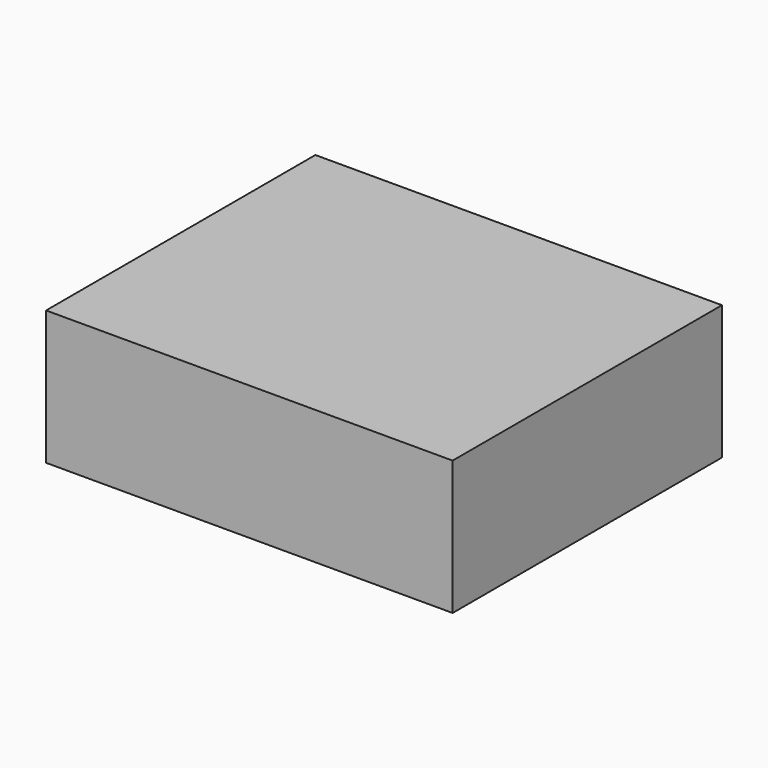
from build123d import *

# Parameters (mm, degrees)
F0_W     = 12.1920043603
F0_H     = 3.0480008572
F1_DEPTH = 50.8


with BuildPart() as f1:
    # F0 (on Right) → F1 (new body)
    with BuildSketch(Plane.YZ):
        with Locations((0, 6.8579996005)):
            Rectangle(F0_W, F0_H)
        Polygon((21.0311990231, -8.3820000291), (21.0311990231, 8.3820000291), (6.0960021801, 8.3820000291), (6.0960021801, 5.3339991719), (-6.0960021801, 5.3339991719), (-6.0960021801, 8.3820000291), (-21.0311990231, 8.3820000291), (-21.0311990231, -8.3820000291), (-6.0960021801, -8.3820000291), (-6.0960021801, -5.3339991719), (6.0960021801, -5.3339991719), (6.0960021801, -8.3820000291), align=None)
        with Locations((0, -6.8579996005)):
            Rectangle(F0_W, F0_H)
    extrude(amount=F1_DEPTH)


solid = f1.part
